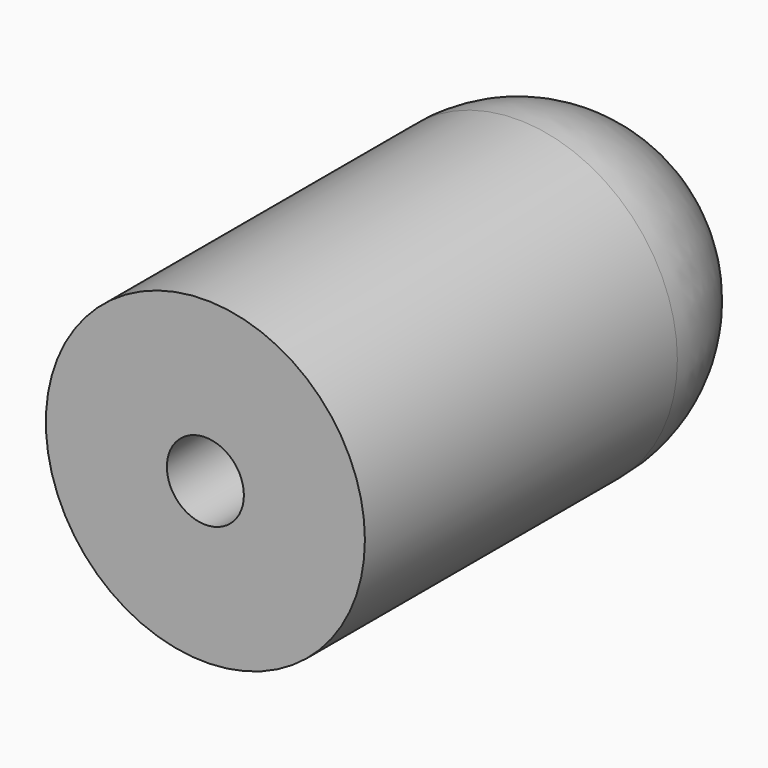
from build123d import *

# Parameters (mm, degrees)
SKETCH001_W     = 10.6
SKETCH001_H     = 6
POCKET_DEPTH    = 3
SKETCH002_R     = 1.75
POCKET001_DEPTH = 22


with BuildPart() as part:
    # Sketch → Revolution (revolve)
    with BuildSketch(Plane.XY):
        with BuildLine():
            Line((7.25, 17.75), (7.25, 0))
            Line((7.25, 0), (0, 0))
            Line((0, 0), (0, 25))
            ThreePointArc((7.25, 17.75), (5.126524, 22.876524), (0, 25))
        make_face()
    revolve(axis=Axis((0, 0, 0), (0, 1, 0)))

    # Sketch001 (on DatumPlane) → Pocket (cut)
    with BuildSketch(Plane.XZ.offset(-5)):
        Rectangle(SKETCH001_W, SKETCH001_H)
    extrude(amount=-POCKET_DEPTH, mode=Mode.SUBTRACT)

    # Sketch002 → Pocket001 (cut)
    with BuildSketch(Plane.XZ):
        Circle(SKETCH002_R)
    extrude(amount=-POCKET001_DEPTH, mode=Mode.SUBTRACT)


solid = part.part
